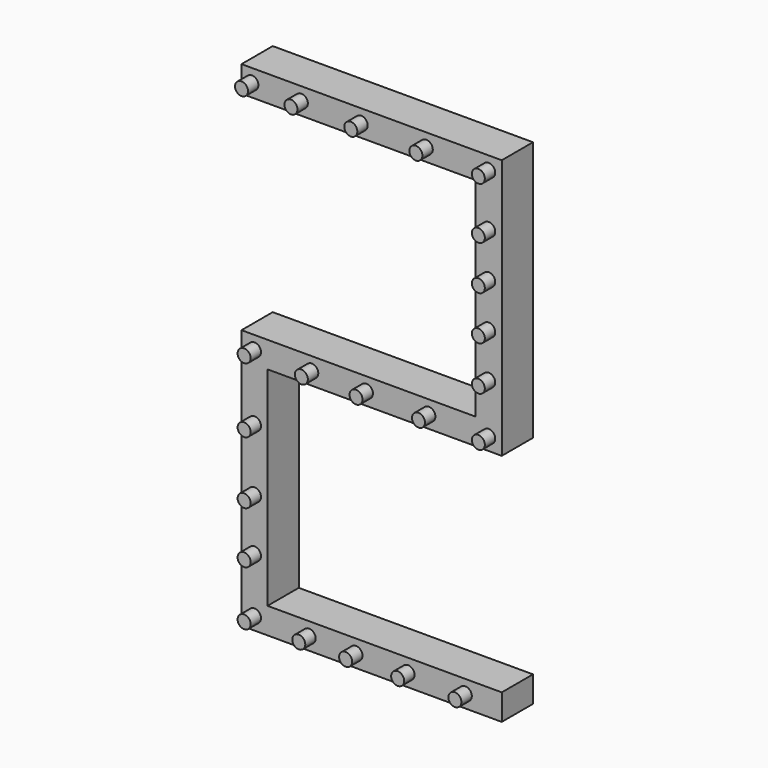
from build123d import *

# Parameters (mm, degrees)
F1_DEPTH = 15
F2_R     = 2.5
F3_DEPTH = 5


with BuildPart() as f1:
    # F0 (on Front) → F1 (new body)
    with BuildSketch(Plane.XZ):
        Polygon((-10, 10), (-100, 10), (-100, -90), (0, -90), (0, -80), (-90, -80), (-90, 0), (0, 0), (0, 100), (-100, 100), (-100, 90), (-10, 90), align=None)
    extrude(amount=F1_DEPTH)

    # F2 (on face) → F3 (join)
    with BuildSketch(Plane.XZ.offset(15)):
        with Locations((-14, -85)):
            Circle(F2_R)
        with Locations((-36, -85)):
            Circle(F2_R)
        with Locations((-56, -85)):
            Circle(F2_R)
        with Locations((-74, -85)):
            Circle(F2_R)
        with Locations((-95, -85)):
            Circle(F2_R)
        with Locations((-95, -64)):
            Circle(F2_R)
        with Locations((-95, -44)):
            Circle(F2_R)
        with Locations((-95, -20)):
            Circle(F2_R)
        with Locations((-95, 5)):
            Circle(F2_R)
        with Locations((-73, 5)):
            Circle(F2_R)
        with Locations((-52, 5)):
            Circle(F2_R)
        with Locations((-28, 5)):
            Circle(F2_R)
        with Locations((-5, 5)):
            Circle(F2_R)
        with Locations((-5, 24)):
            Circle(F2_R)
        with Locations((-5, 41)):
            Circle(F2_R)
        with Locations((-5, 58)):
            Circle(F2_R)
        with Locations((-5, 75)):
            Circle(F2_R)
        with Locations((-5, 95)):
            Circle(F2_R)
        with Locations((-96, 95)):
            Circle(F2_R)
        with Locations((-77, 95)):
            Circle(F2_R)
        with Locations((-54, 95)):
            Circle(F2_R)
        with Locations((-29, 95)):
            Circle(F2_R)
    extrude(amount=F3_DEPTH)


solid = f1.part
